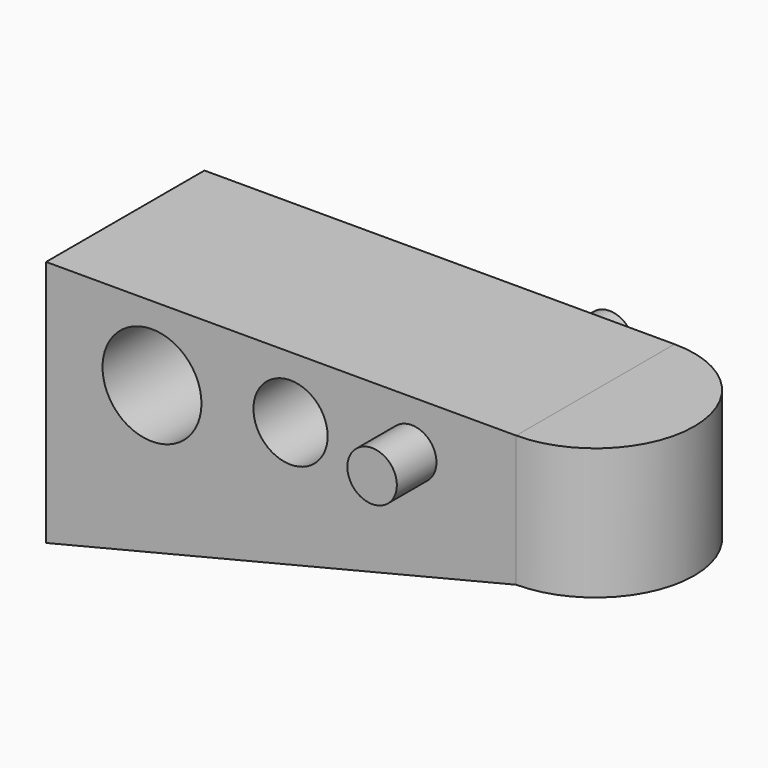
from build123d import *

# Parameters (mm, degrees)
F0_R     = 12.7
F0_R_2   = 9.525
F0_R_3   = 6.35
F1_DEPTH = 25.4
F2_R     = 6.35
F3_DEPTH = 38.1
F0_W     = 25.4
F0_H     = 33.710446
F4_ANGLE = 180


with BuildPart() as f1:
    # F0 (on Front) → F1 (new body, symmetric)
    with BuildSketch(Plane.XZ):
        Polygon((57.905746, 45.626265), (-62.744254, 45.626265), (-62.744254, -17.873735), (57.905746, 11.915819), align=None)
        with Locations((-35.561286, 26.576265)):
            Circle(F0_R, mode=Mode.SUBTRACT)
        with Locations((0, 29.751265)):
            Circle(F0_R_2, mode=Mode.SUBTRACT)
        with Locations((31.092848, 32.926265)):
            Circle(F0_R_3, mode=Mode.SUBTRACT)
    extrude(amount=F1_DEPTH, both=True)


with BuildPart() as f3:
    # F2 (on Front) → F3 (new body, symmetric)
    with BuildSketch(Plane.XZ):
        with Locations((31.092846, 32.926265)):
            Circle(F2_R)
    extrude(amount=F3_DEPTH, both=True)


with BuildPart() as f4:
    # F0 (on Front) → F4 (revolve, symmetric)
    with BuildSketch(Plane.XZ) as f4_sk:
        with Locations((70.605746, 28.771042)):
            Rectangle(F0_W, F0_H)
    revolve(axis=Axis((57.905746, 0, 28.771042), (0, 0, -1)), revolution_arc=F4_ANGLE / 2)
    revolve(f4_sk.sketch, axis=Axis((57.905746, 0, 28.771042), (0, 0, 1)), revolution_arc=F4_ANGLE / 2)


solid = Compound([f1.part, f3.part, f4.part])
